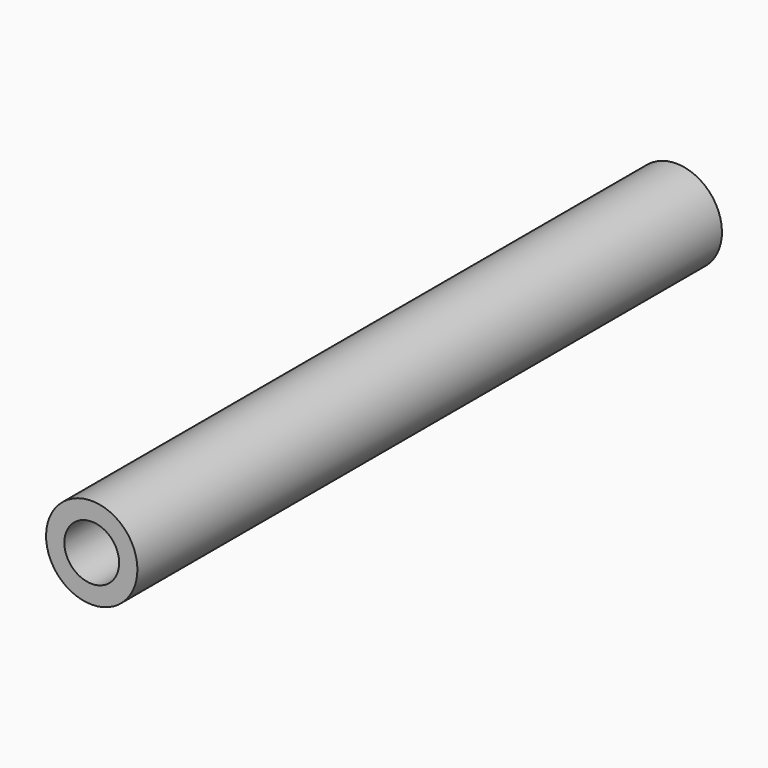
from build123d import *

# Parameters (mm, degrees)
CYLINDER003_R           = 1.5
CYLINDER003_DEPTH       = 44
CYLINDER003_PITCH_ANGLE = 90
CYLINDER002_R           = 2.5
CYLINDER002_DEPTH       = 40
CYLINDER002_PITCH_ANGLE = 90
CUT005_PLACEMENT_ANGLE  = 90


with BuildPart() as cilindro003:
    # Cylinder003 → Cylinder003 (new body)
    with BuildSketch(Plane.XY):
        Circle(CYLINDER003_R)
    extrude(amount=CYLINDER003_DEPTH)


with BuildPart() as cilindro003_1:
    # Cylinder003 pitch: moved
    add(cilindro003.part.rotate(Axis((0, 0, 0), (0, 1, 0)), CYLINDER003_PITCH_ANGLE))


with BuildPart() as cilindro003_2:
    # Cylinder003 placement: moved
    add(cilindro003_1.part.moved(Location((-2, 0, 0))))


with BuildPart() as soporte006:
    # Cylinder002 → Cylinder002 (new body)
    with BuildSketch(Plane.XY):
        Circle(CYLINDER002_R)
    extrude(amount=CYLINDER002_DEPTH)


with BuildPart() as soporte006_1:
    # Cylinder002 pitch: moved
    add(soporte006.part.rotate(Axis((0, 0, 0), (0, 1, 0)), CYLINDER002_PITCH_ANGLE))


with BuildPart() as soporte006_2:
    # Cylinder002 placement: moved
    add(soporte006_1.part)

    # Cut005: cut Cilindro003
    add(cilindro003_2.part, mode=Mode.SUBTRACT)


with BuildPart() as soporte006_3:
    # Cut005 placement: moved
    add(soporte006_2.part.moved(Location((14, 235, 311))).rotate(Axis((14, 235, 311), (0, 0, 1)), CUT005_PLACEMENT_ANGLE))


solid = soporte006_3.part
